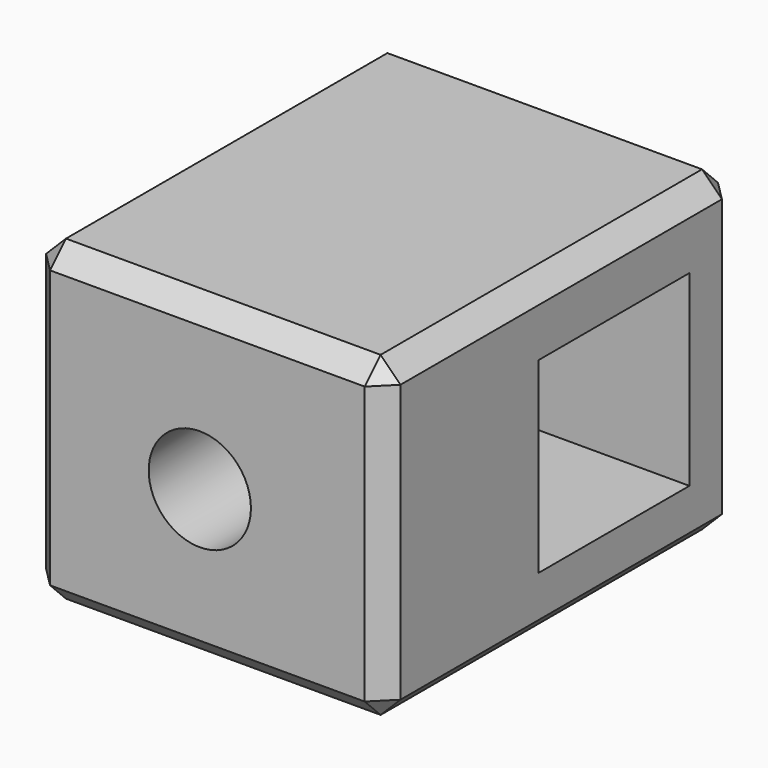
from build123d import *

# Parameters (mm, degrees)
F0_W      = 17.82
F0_H      = 15.94
F1_DEPTH  = 22.2
F2_SIZE2  = 1
F2_SIZE   = 1
F3_W      = 9.48
F3_H      = 9.42
F4_DEPTH  = 16
F5_R      = 2.51
F6_DEPTH  = 25
F7_R      = 2.57
F8_DEPTH  = 6
F9_R      = 1.158766
F10_DEPTH = 1.5


with BuildPart() as f1:
    # F0 (on Front) → F1 (new body)
    with BuildSketch(Plane.XZ):
        with Locations((-8.91, 7.97)):
            Rectangle(F0_W, F0_H)
    extrude(amount=F1_DEPTH)

    # F2
    f2_edges = [f1.edges().sort_by_distance(p)[0] for p in [
        (-8.91, -22.2, 0),
        (0, -22.2, 7.97),
        (-8.91, -22.2, 15.94),
        (-17.82, -22.2, 7.97),
        (0, -11.1, 0),
        (0, -11.1, 15.94),
        (0, 0, 7.97),
        (-17.82, -11.1, 15.94),
        (-8.91, 0, 15.94),
        (-8.91, 0, 0),
        (-17.82, 0, 7.97),
        (-17.82, -11.1, 0),
    ]]
    chamfer(f2_edges, length=F2_SIZE, length2=F2_SIZE2)

    # F3 (on face) → F4 (cut)
    with BuildSketch(Plane.YZ):
        with Locations((-7.782405, 7.794221)):
            Rectangle(F3_W, F3_H)
    extrude(amount=-F4_DEPTH, mode=Mode.SUBTRACT)

    # F5 (on face) → F6 (cut)
    with BuildSketch(Plane(origin=(-17.82, 0, 0), x_dir=(0, -1, 0), z_dir=(-1, 0, 0))):
        with Locations((7.826266, 7.837604)):
            Circle(F5_R)
    extrude(amount=-F6_DEPTH, mode=Mode.SUBTRACT)

    # F7 (on face) → F8 (cut)
    with BuildSketch(Plane.XZ.offset(22.2)):
        with Locations((-9.29072, 7.7)):
            Circle(F7_R)
    extrude(amount=-F8_DEPTH, mode=Mode.SUBTRACT)

    # F9 (on face) → F10 (cut)
    with BuildSketch(Plane.XZ.offset(16.2)):
        with Locations((-9.29072, 7.7)):
            Circle(F9_R)
    extrude(amount=-F10_DEPTH, mode=Mode.SUBTRACT)


solid = f1.part
